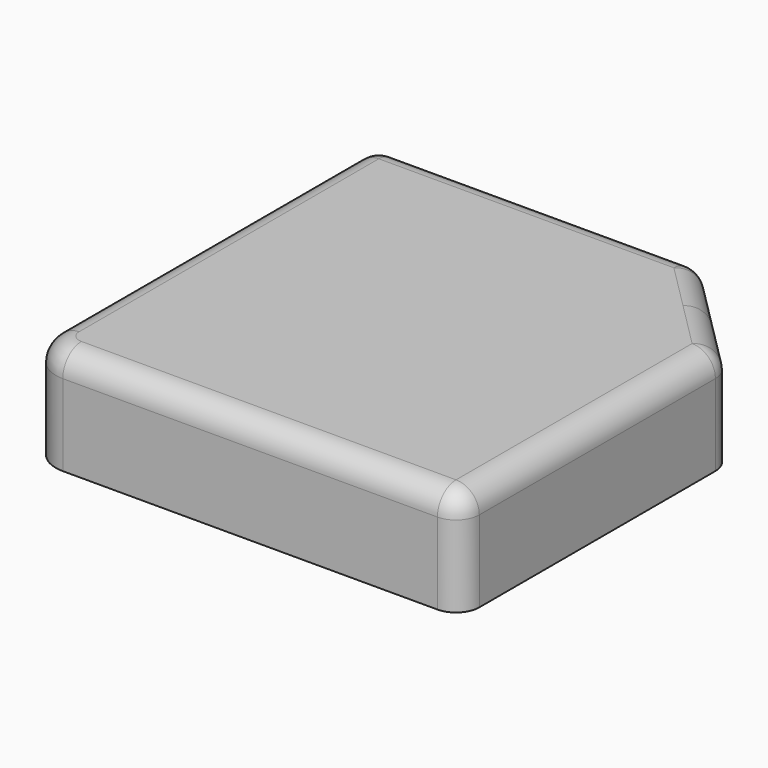
from build123d import *

# Parameters (mm, degrees)
F1_DEPTH = 6
F3_DEPTH = 3
F5_DEPTH = 9
F7_DEPTH = 3
F8_R     = 2
F9_R     = 2


with BuildPart() as f1:
    # F0 (on Top) → F1 (new body)
    with BuildSketch(Plane.XY):
        with BuildLine():
            Line((-3, 34.2), (-3, 0))
            ThreePointArc((-3, 0), (-2.1213203436, -2.1213203436), (0, -3))
            Line((0, -3), (34.2, -3))
            Line((34.2, -3), (34.2, 3))
            Line((34.2, 3), (5, 3))
            ThreePointArc((5, 3), (3.5857864376, 3.5857864376), (3, 5))
            Line((3, 5), (3, 34.2))
            Line((3, 34.2), (-3, 34.2))
        make_face()
        with BuildLine():
            Line((1, 32.2), (1, 2))
            ThreePointArc((1, 2), (1.2928932188, 1.2928932188), (2, 1))
            Line((2, 1), (32.2, 1))
            Line((32.2, 1), (32.2, -1))
            Line((32.2, -1), (0, -1))
            ThreePointArc((0, -1), (-0.7071067812, -0.7071067812), (-1, 0))
            Line((-1, 0), (-1, 32.2))
            Line((-1, 32.2), (1, 32.2))
        make_face(mode=Mode.SUBTRACT)
    extrude(amount=F1_DEPTH)

    # F2 (on face) → F3 (join)
    with BuildSketch(Plane.XY.offset(6)):
        with BuildLine():
            Line((3, 34.2), (-3, 34.2))
            Line((-3, 34.2), (-3, 0))
            ThreePointArc((-3, 0), (-2.1213203436, -2.1213203436), (0, -3))
            Line((0, -3), (34.2, -3))
            Line((34.2, -3), (34.2, 3))
            Line((34.2, 3), (5, 3))
            ThreePointArc((5, 3), (3.5857864376, 3.5857864376), (3, 5))
            Line((3, 5), (3, 34.2))
        make_face()
        with BuildLine():
            ThreePointArc((0, -1), (-0.7071067812, -0.7071067812), (-1, 0))
            Line((-1, 0), (-1, 32.2))
            Line((-1, 32.2), (1, 32.2))
            Line((1, 32.2), (1, 2))
            ThreePointArc((1, 2), (1.2928932188, 1.2928932188), (2, 1))
            Line((2, 1), (32.2, 1))
            Line((32.2, 1), (32.2, -1))
            Line((32.2, -1), (0, -1))
        make_face(mode=Mode.SUBTRACT)
        with BuildLine():
            Line((3, 34.2), (-3, 34.2))
            Line((-3, 34.2), (-3, 0))
            ThreePointArc((-3, 0), (-2.1213203436, -2.1213203436), (0, -3))
            Line((0, -3), (34.2, -3))
            Line((34.2, -3), (34.2, 3))
            Line((34.2, 3), (5, 3))
            ThreePointArc((5, 3), (3.5857864376, 3.5857864376), (3, 5))
            Line((3, 5), (3, 34.2))
        make_face()
        with BuildLine():
            Line((-1, 32.2), (-1, 0))
            ThreePointArc((-1, 0), (-0.7071067812, -0.7071067812), (0, -1))
            Line((0, -1), (32.2, -1))
            Line((32.2, -1), (32.2, 1))
            Line((32.2, 1), (2, 1))
            ThreePointArc((2, 1), (1.2928932188, 1.2928932188), (1, 2))
            Line((1, 2), (1, 32.2))
            Line((1, 32.2), (-1, 32.2))
        make_face()
    extrude(amount=F3_DEPTH)

    # F4 (on face) → F5 (join, through all)
    with BuildSketch(Plane(origin=(0, 0, 0), x_dir=(1, 0, 0), z_dir=(0, 0, -1))):
        with BuildLine():
            Line((3, -5), (3, -34.2))
            Line((3, -34.2), (25.1969696197, -34.2))
            Line((25.1969696197, -34.2), (29.6984848098, -29.6984848098))
            Line((29.6984848098, -29.6984848098), (34.2, -25.1969696197))
            Line((34.2, -25.1969696197), (34.2, -3))
            Line((34.2, -3), (5, -3))
            ThreePointArc((5, -3), (3.5857864376, -3.5857864376), (3, -5))
        make_face()
        Polygon((18.9504617358, -29.1327993849), (24.0416305603, -24.0416305603), (29.1327993849, -18.9504617358), (31.9612265096, -21.7788888605), (26.8700576851, -26.8700576851), (21.7788888605, -31.9612265096), align=None, mode=Mode.SUBTRACT)
    extrude(amount=-F5_DEPTH)

    # F6 (on face) → F7 (join)
    with BuildSketch(Plane.XY.offset(9)):
        Polygon((18.9504617358, 29.1327993849), (29.1327993849, 18.9504617358), (31.9612265096, 21.7788888605), (21.7788888605, 31.9612265096), align=None)
    extrude(amount=-F7_DEPTH)

    # F8
    f8_edges = [f1.edges().sort_by_distance(p)[0] for p in [
        (34.2, -3, 4.5),
        (34.2, 25.19697, 4.5),
        (25.19697, 34.2, 4.5),
        (-3, 34.2, 4.5),
    ]]
    fillet(f8_edges, radius=F8_R)

    # F9
    f9_edges = [f1.edges().sort_by_distance(p)[0] for p in [
        (16.1, -3, 9),
        (33.614214, -2.414214, 9),
        (-2.12132, -2.12132, 9),
        (34.2, 11.684271, 9),
        (-3, 16.1, 9),
        (34.047759, 25.133909, 9),
        (-2.414214, 33.614214, 9),
        (29.698485, 29.698485, 9),
        (11.684271, 34.2, 9),
        (25.133909, 34.047759, 9),
    ]]
    fillet(f9_edges, radius=F9_R)


solid = f1.part
